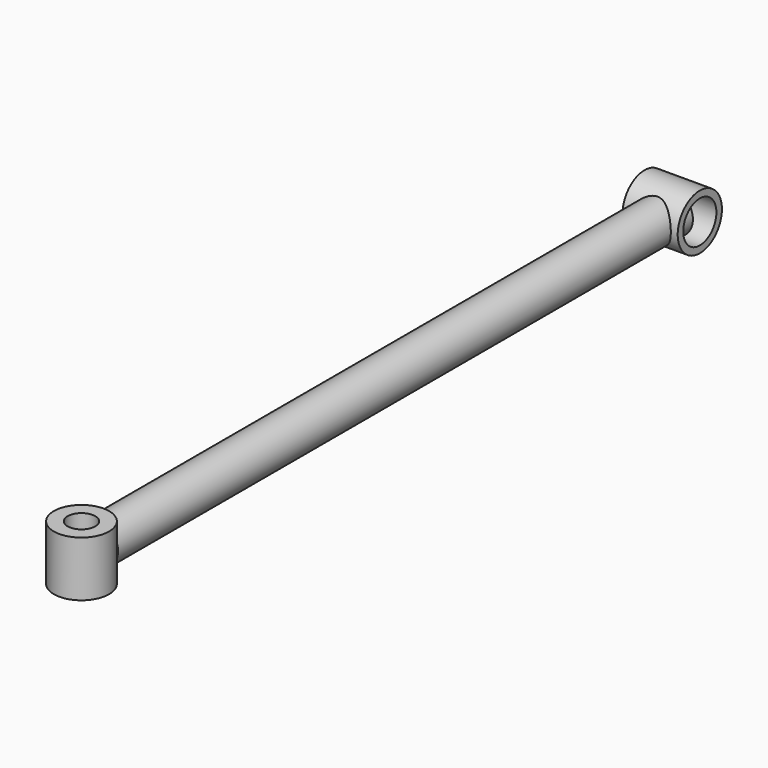
from build123d import *

# Parameters (mm, degrees)
F1_R     = 12.7
F1_R_2   = 9.525
F2_DEPTH = 12.7
F0_R     = 9.525
F3_DEPTH = 330.2
F4_R     = 12.7
F4_R_2   = 6.35
F5_DEPTH = 12.7


with BuildPart() as f2:
    # F1 (on Right) → F2 (new body, symmetric)
    with BuildSketch(Plane.YZ):
        Circle(F1_R)
        Circle(F1_R_2, mode=Mode.SUBTRACT)
    extrude(amount=F2_DEPTH, both=True)

    # F0 (on Front) → F3 (join)
    with BuildSketch(Plane.XZ):
        Circle(F0_R)
    extrude(amount=F3_DEPTH)

    # F4 (on Top) → F5 (join, symmetric)
    with BuildSketch(Plane.XY):
        with Locations((0, -339.3217325211)):
            Circle(F4_R)
        with Locations((0, -339.3217325211)):
            Circle(F4_R_2, mode=Mode.SUBTRACT)
    extrude(amount=F5_DEPTH, both=True)


solid = f2.part
